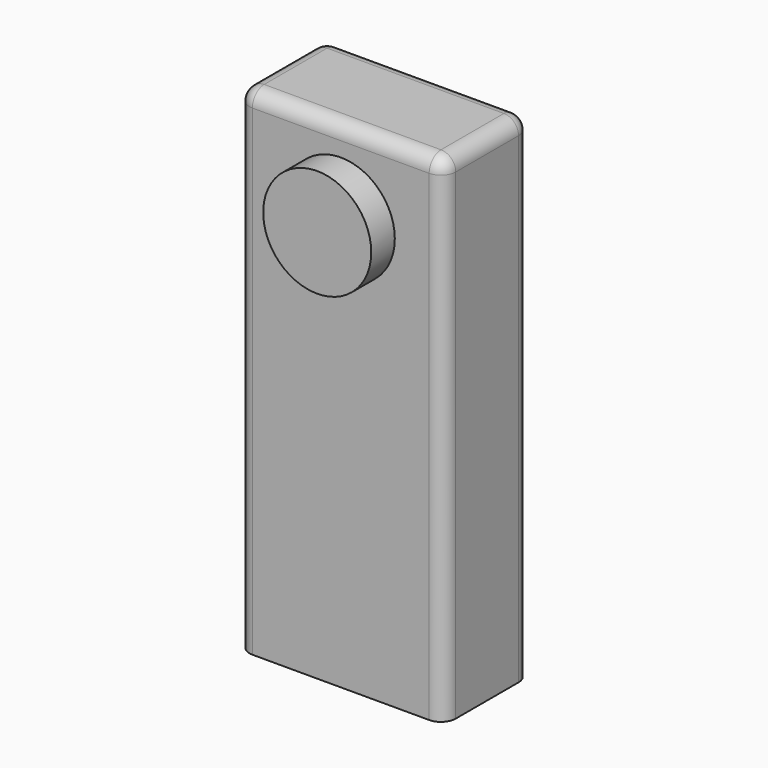
from build123d import *

# Parameters (mm, degrees)
F0_W     = 100
F0_H     = 50
F1_DEPTH = 250
F2_R     = 25
F3_DEPTH = 15
F4_R     = 5
F5_T     = 2.5


with BuildPart() as f1:
    # F0 (on Top) → F1 (new body)
    with BuildSketch(Plane.XY):
        Rectangle(F0_W, F0_H)
    extrude(amount=F1_DEPTH)

    # F2 (on face) → F3 (join)
    with BuildSketch(Plane.XZ.offset(25)):
        with Locations((0, 210)):
            Circle(F2_R)
    extrude(amount=F3_DEPTH)

    # F4
    f4_edges = [f1.edges().sort_by_distance(p)[0] for p in [
        (-50, 0, 250),
        (0, 25, 250),
        (50, 0, 250),
        (0, -25, 250),
        (50, -25, 125),
        (50, 25, 125),
        (-50, -25, 125),
        (-50, 25, 125),
    ]]
    fillet(f4_edges, radius=F4_R)

    # F5
    f5_openings = [f1.faces().sort_by_distance(p)[0] for p in [
        (0, 0, 0),
    ]]
    offset(amount=F5_T, openings=f5_openings, kind=Kind.INTERSECTION)


solid = f1.part
